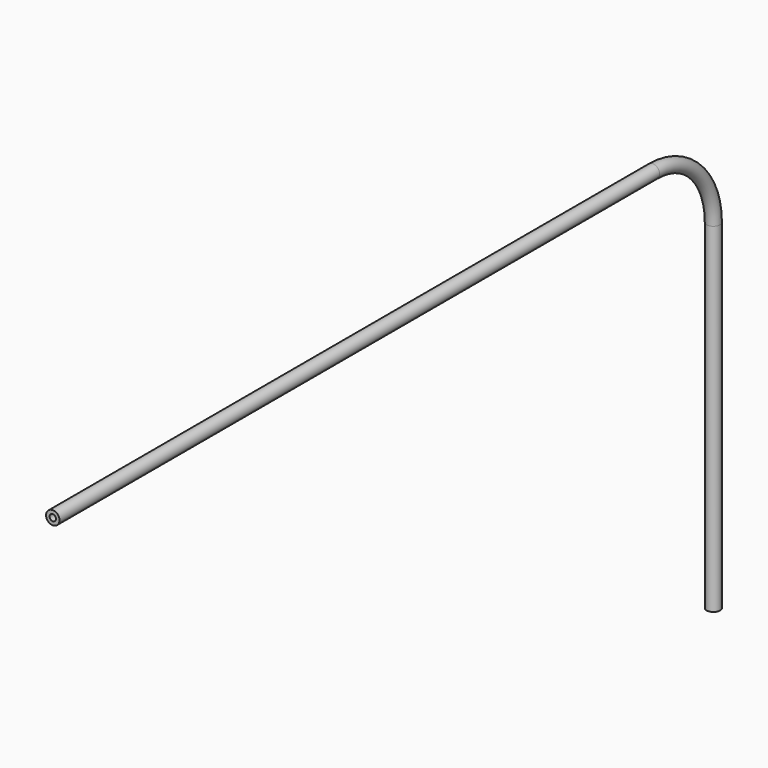
from build123d import *

# Parameters (mm, degrees)
F1_R   = 0.203
F1_R_2 = 0.0955


with BuildPart() as f2:
    # F2: sweep along a path in F0
    with BuildLine(Plane.YZ) as f2_path:
        Line((0, 0), (22.71, 0))
        ThreePointArc((22.71, 0), (24.3292745289, -0.6707254711), (25, -2.29))
        Line((25, -2.29), (25, -12.57))
    # F1 (on Front) → F2 (sweep)
    with BuildSketch(Plane.XZ):
        Circle(F1_R)
        Circle(F1_R_2, mode=Mode.SUBTRACT)
    sweep(path=f2_path.line)


solid = f2.part
